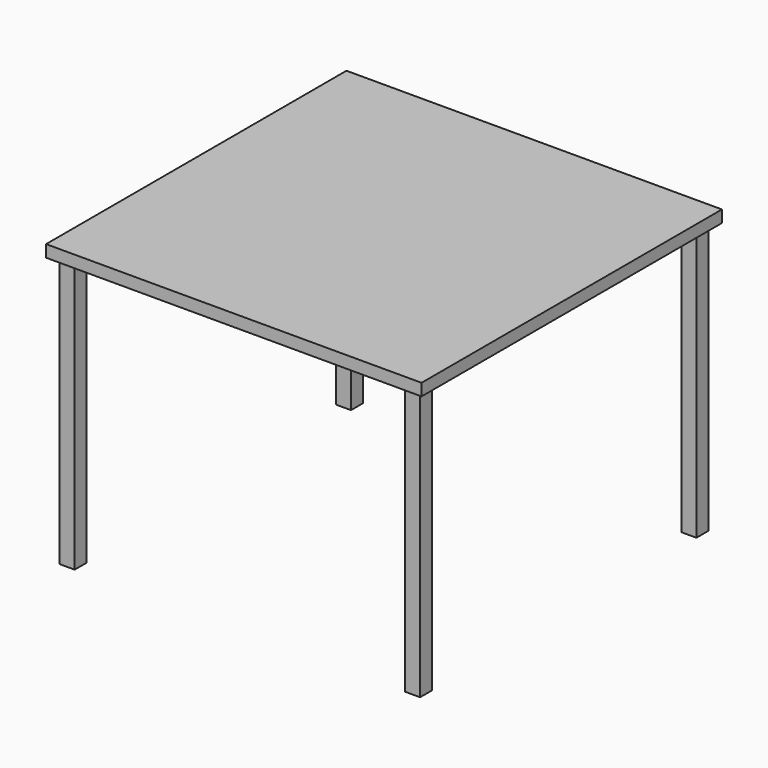
from build123d import *

# Parameters (mm, degrees)
F0_W     = 50
F0_H     = 50
F1_DEPTH = 900
F2_W     = 1250
F2_H     = 1250
F3_DEPTH = 40


with BuildPart() as f1:
    # F0 (on Top) → F1 (new body)
    with BuildSketch(Plane.XY):
        with Locations((-575, 575)):
            Rectangle(F0_W, F0_H)
        with Locations((575, 575)):
            Rectangle(F0_W, F0_H)
        with Locations((575, -575)):
            Rectangle(F0_W, F0_H)
        with Locations((-575, -575)):
            Rectangle(F0_W, F0_H)
    extrude(amount=F1_DEPTH)

    # F2 (on face) → F3 (join)
    with BuildSketch(Plane.XY.offset(900)):
        Rectangle(F2_W, F2_H)
    extrude(amount=F3_DEPTH)


solid = f1.part
